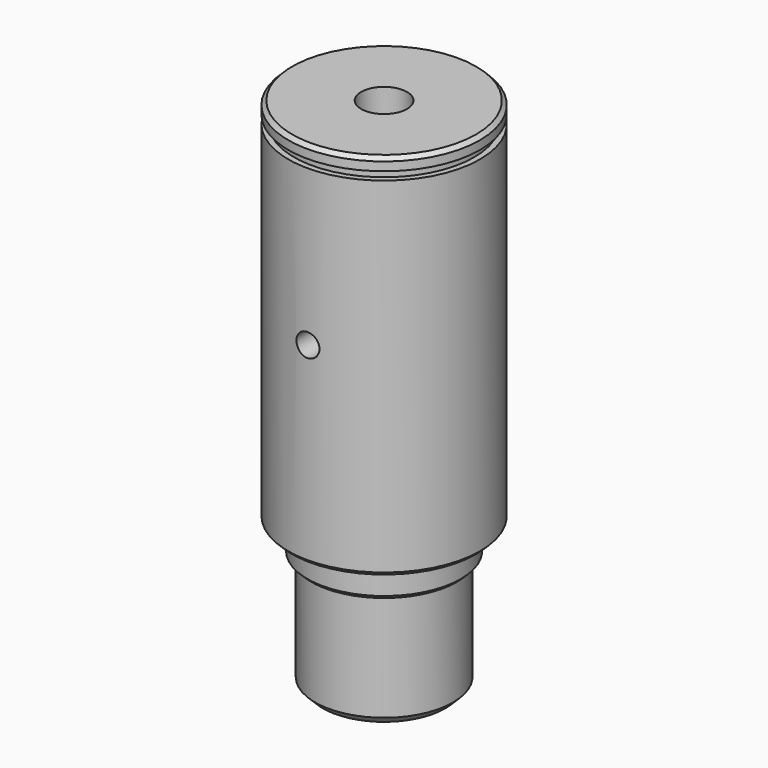
from build123d import *

# Parameters (mm, degrees)
F0_R            = 25
F1_DEPTH        = 91
F2_R            = 23.5
F3_DEPTH        = 2.15
F4_R            = 25
F5_DEPTH        = 3.25
F6_SIZE         = 1
F7_R            = 20
F8_DEPTH        = 8
F9_R            = 18
F10_DEPTH       = 30
F11_SIZE        = 1
F12_SIZE        = 2
F14_D           = 6
F14_DEPTH       = 60
F14_CBORE_D     = 12
F14_CBORE_DEPTH = 12
F14_TIP         = 1.8025818571
F17_D           = 6


with BuildPart() as f1:
    # F0 (on Top) → F1 (new body)
    with BuildSketch(Plane.XY):
        Circle(F0_R)
    extrude(amount=F1_DEPTH)

    # F2 (on face) → F3 (join)
    with BuildSketch(Plane.XY.offset(91)):
        Circle(F2_R)
    extrude(amount=F3_DEPTH)

    # F4 (on face) → F5 (join)
    with BuildSketch(Plane.XY.offset(93.15)):
        Circle(F4_R)
    extrude(amount=F5_DEPTH)

    # F6
    f6_edges = [f1.edges().sort_by_distance(p)[0] for p in [
        (-25, 0, 96.4),
    ]]
    chamfer(f6_edges, length=F6_SIZE)

    # F7 (on face) → F8 (join)
    with BuildSketch(Plane(origin=(0, 0, 0), x_dir=(1, 0, 0), z_dir=(0, 0, -1))):
        Circle(F7_R)
    extrude(amount=F8_DEPTH)

    # F9 (on face) → F10 (join)
    with BuildSketch(Plane(origin=(0, 0, -8), x_dir=(1, 0, 0), z_dir=(0, 0, -1))):
        Circle(F9_R)
    extrude(amount=F10_DEPTH)

    # F11
    f11_edges = [f1.edges().sort_by_distance(p)[0] for p in [
        (-25, 0, 0),
        (-20, 0, -8),
    ]]
    chamfer(f11_edges, length=F11_SIZE)

    # F12
    f12_edges = [f1.edges().sort_by_distance(p)[0] for p in [
        (-18, 0, -38),
    ]]
    chamfer(f12_edges, length=F12_SIZE)

    # F14
    with Locations(Plane.XY.offset(96.4)):
        with Locations((0, 0)):
            CounterBoreHole(F14_D / 2, F14_CBORE_D / 2, F14_CBORE_DEPTH, depth=F14_DEPTH)
            with Locations((0, 0, -(F14_DEPTH + F14_TIP / 2))):  # 118° drill point
                Cone(0, F14_D / 2, F14_TIP, mode=Mode.SUBTRACT)

    # F17 (through all)
    with Locations(Plane.XZ.offset(25)):
        with Locations((0, 50.4)):
            Hole(F17_D / 2)


solid = f1.part
